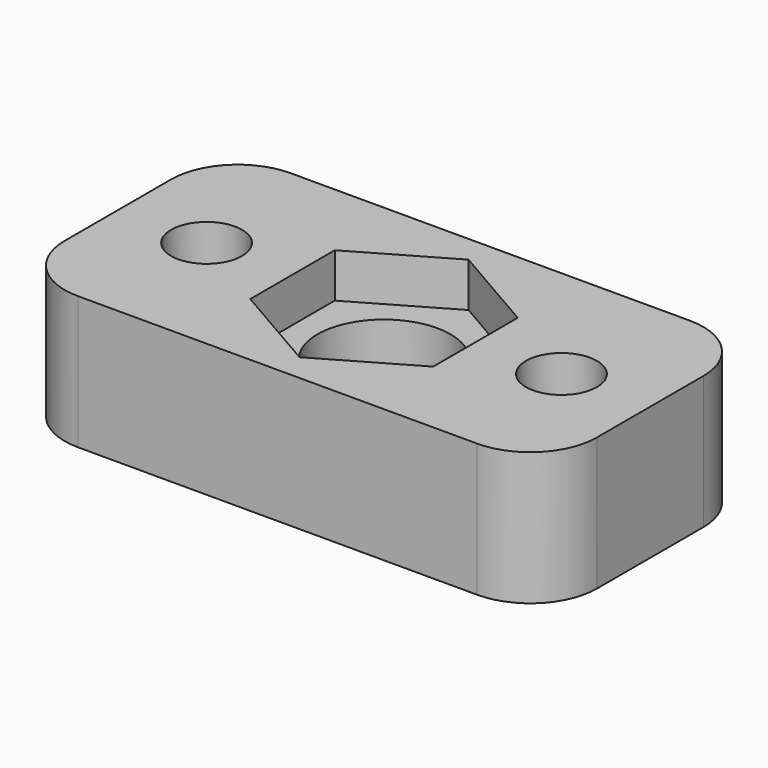
from build123d import *

# Parameters (mm, degrees)
SKETCH_W          = 24
SKETCH_H          = 12
SKETCH_R          = 3
PAD_DEPTH         = 4
SKETCH001_W       = 24
SKETCH001_H       = 12
PAD001_DEPTH      = 2
SKETCH002_R       = 1.6
POCKET_DEPTH      = 4.001
POCKET_DEPTH_BACK = -2.001
FILLET_R          = 3


with BuildPart() as part:
    # Sketch → Pad (new body)
    with BuildSketch(Plane.XY):
        Rectangle(SKETCH_W, SKETCH_H)
        Circle(SKETCH_R, mode=Mode.SUBTRACT)
    extrude(amount=-PAD_DEPTH)

    # Sketch001 → Pad001 (join)
    with BuildSketch(Plane.XY):
        Rectangle(SKETCH001_W, SKETCH001_H)
        Polygon((4.125, -2.38157), (4.125, 2.38157), (0, 4.76314), (-4.125, 2.38157), (-4.125, -2.38157), (0, -4.76314), align=None, mode=Mode.SUBTRACT)
    extrude(amount=PAD001_DEPTH)

    # Sketch002 → Pocket (cut, two sides)
    with BuildSketch(Plane.XY) as pocket_sk:
        with Locations((-8, 0)):
            Circle(SKETCH002_R)
        with Locations((8, 0)):
            Circle(SKETCH002_R)
    extrude(amount=-POCKET_DEPTH, mode=Mode.SUBTRACT)
    extrude(pocket_sk.sketch, amount=-POCKET_DEPTH_BACK, mode=Mode.SUBTRACT)

    # Fillet
    fillet_edges = [part.edges().sort_by_distance(p)[0] for p in [
        (-12, -6, -2),
        (-12, 6, -2),
        (12, 6, -2),
        (12, -6, -2),
    ]]
    fillet(fillet_edges, radius=FILLET_R)


solid = part.part
